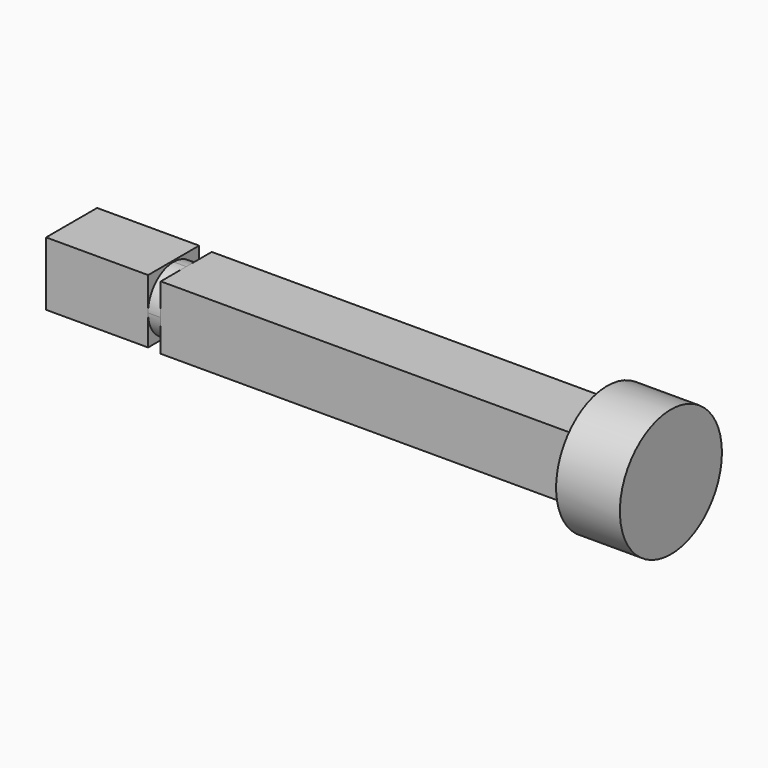
from build123d import *

# Parameters (mm, degrees)
F0_W     = 5
F0_H     = 5
F1_DEPTH = 33
F2_R     = 5
F3_DEPTH = 5
F5_DEPTH = 1
F7_W     = 5
F7_H     = 5
F8_DEPTH = 8


with BuildPart() as f1:
    # F0 (on Right) → F1 (new body)
    with BuildSketch(Plane.YZ):
        Rectangle(F0_W, F0_H)
    extrude(amount=F1_DEPTH)

    # F2 (on face) → F3 (join)
    with BuildSketch(Plane.YZ.offset(33)):
        Circle(F2_R)
    extrude(amount=F3_DEPTH)

    # F4 (on face) → F5 (join)
    with BuildSketch(Plane(origin=(0, 0, 0), x_dir=(0, -1, 0), z_dir=(-1, 0, 0))):
        with BuildLine():
            ThreePointArc((0, -2.5), (1.767767, -1.767767), (2.5, 0))
            ThreePointArc((2.5, 0), (1.767767, 1.767767), (0, 2.5))
            ThreePointArc((0, 2.5), (-1.767767, 1.767767), (-2.5, 0))
            ThreePointArc((-2.5, 0), (-1.767767, -1.767767), (0, -2.5))
        make_face()
    extrude(amount=F5_DEPTH)

    # F7 (on face) → F8 (join)
    with BuildSketch(Plane(origin=(-1, 0, 0), x_dir=(0, -1, 0), z_dir=(-1, 0, 0))):
        with Locations((-0.012615, 0.104109)):
            Rectangle(F7_W, F7_H)
    extrude(amount=F8_DEPTH)


solid = f1.part
